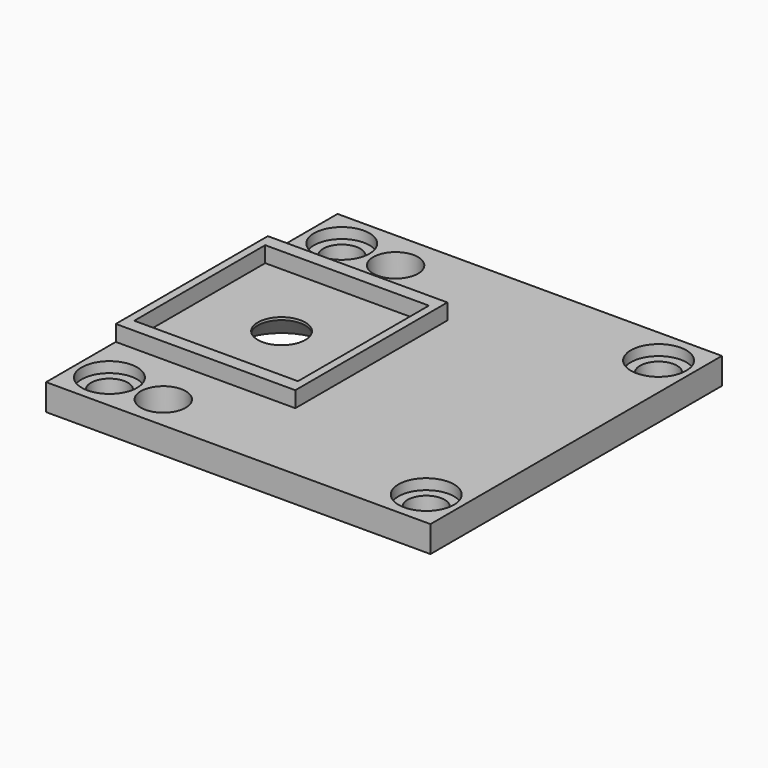
from build123d import *

# Parameters (mm, degrees)
F0_W            = 72.8
F0_H            = 69
F1_DEPTH        = 5
F3_D            = 7
F5_D            = 8.5
F6_W            = 34
F6_H            = 36
F6_W_2          = 31
F6_H_2          = 31
F7_DEPTH        = 3
F9_D            = 9
F9_CSINK_D      = 18
F9_CSINK_ANGLE  = 90
F11_D           = 7
F11_CBORE_D     = 10.5
F11_CBORE_DEPTH = 2


with BuildPart() as f1:
    # F0 (on Top) → F1 (new body)
    with BuildSketch(Plane.XY):
        Rectangle(F0_W, F0_H)
    extrude(amount=F1_DEPTH)

    # F3 (through all)
    with Locations(Plane.XY.offset(5)):
        with Locations((-30, 27.5), (30, 27.5), (30, -27.5), (-30, -27.5)):
            Hole(F3_D / 2)

    # F5 (through all)
    with Locations(Plane.XY.offset(5)):
        with Locations((-19.4, 27), (-19.4, -28)):
            Hole(F5_D / 2)

    # F6 (on face) → F7 (join)
    with BuildSketch(Plane.XY.offset(5)):
        with Locations((-19.4, 0)):
            Rectangle(F6_W, F6_H)
        with Locations((-19.4, 0)):
            Rectangle(F6_W_2, F6_H_2, mode=Mode.SUBTRACT)
    extrude(amount=F7_DEPTH)

    # F9 (through all)
    with Locations(Plane(origin=(0, 0, 0), x_dir=(1, 0, 0), z_dir=(0, 0, -1))):
        with Locations((-19.4, 0)):
            CounterSinkHole(F9_D / 2, F9_CSINK_D / 2, counter_sink_angle=F9_CSINK_ANGLE)

    # F11 (through all)
    with Locations(Plane.XY.offset(5)):
        with Locations((-30, 27.5), (30, 27.5), (30, -27.5), (-30, -27.5)):
            CounterBoreHole(F11_D / 2, F11_CBORE_D / 2, F11_CBORE_DEPTH)


solid = f1.part
